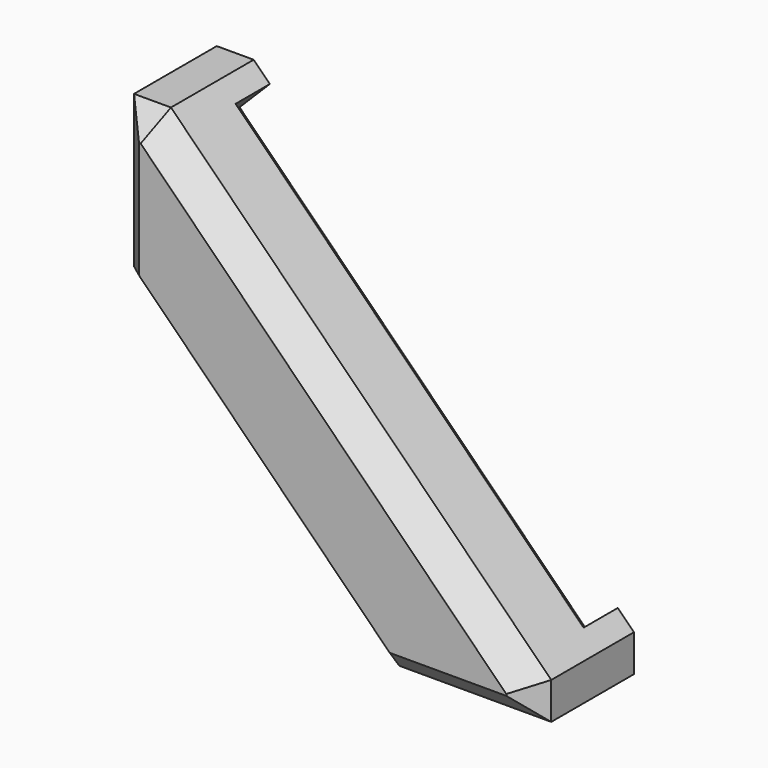
from build123d import *

# Parameters (mm, degrees)
PAD005_DEPTH    = 9
POCKET002_DEPTH = 4
CHAMFER002_SIZE = 0.8
POCKET008_DEPTH = 3
CHAMFER007_SIZE = 1.75
CHAMFER008_SIZE = 8.99
POCKET013_DEPTH = 8.001


with BuildPart() as part:
    # Sketch008 → Pad005 (new body)
    with BuildSketch(Plane(origin=(0, 0, 249.45), x_dir=(1, 0, 0), z_dir=(0, -1, 0))):
        Polygon((0.989949, -221.802125), (27.647875, -248.460051), (27.647875, -251.05), (6.76188, -251.05), (-1.6, -242.68812), (-1.6, -221.802125), align=None)
    extrude(amount=PAD005_DEPTH)

    # Sketch009 (on Face7 of Pad005) → Pocket002 (cut)
    with BuildSketch(Plane(origin=(0, 0, 0), x_dir=(1, 0, 0), z_dir=(0, 1, 0))):
        Polygon((22.132442, 0), (18.031223, -4.101219), (13.930004, 0), align=None)
        Polygon((0, -22.132442), (0, -13.930004), (4.101219, -18.031223), align=None)
    extrude(amount=-POCKET002_DEPTH, mode=Mode.SUBTRACT)

    # Chamfer002
    chamfer002_edges = [part.edges().sort_by_distance(p)[0] for p in [
        (18.031223, 0, 0),
        (20.081833, 0, 2.05061),
        (15.980613, 0, 2.05061),
        (0, 0, 18.031223),
        (2.05061, 0, 20.081833),
        (2.05061, 0, 15.980613),
    ]]
    chamfer(chamfer002_edges, length=CHAMFER002_SIZE)

    # Sketch050 → Pocket008 (cut)
    with BuildSketch(Plane(origin=(0, 0, 249.45), x_dir=(1, 0, 0), z_dir=(0, -1, 0))):
        Polygon((0, -225.054816), (2.12132, -222.933496), (26.516504, -247.32868), (24.395184, -249.45), align=None)
    extrude(amount=POCKET008_DEPTH, mode=Mode.SUBTRACT)

    # Chamfer007
    chamfer007_edges = [part.edges().sort_by_distance(p)[0] for p in [
        (17.204877, -9, -1.6),
        (27.647875, -9, -0.305025),
        (14.318912, -9, 14.318912),
        (-1.6, -9, 17.204877),
        (-0.305025, -9, 27.647875),
    ]]
    chamfer(chamfer007_edges, length=CHAMFER007_SIZE)

    # Chamfer008
    chamfer008_edges = [part.edges().sort_by_distance(p)[0] for p in [
        (2.58094, -9, 2.58094),
    ]]
    chamfer(chamfer008_edges, length=CHAMFER008_SIZE)

    # Sketch059 (on Face4 of Chamfer008) → Pocket013 (cut, through all)
    with BuildSketch(Plane(origin=(0, -1, 0), x_dir=(1, 0, 0), z_dir=(0, 1, 0))):
        Polygon((12.643069, -5.23259), (5.23259, -12.643069), (-2.177889, -5.23259), (5.23259, 2.177889), align=None)
    extrude(amount=-POCKET013_DEPTH, mode=Mode.SUBTRACT)


with BuildPart() as part_1:
    # Body001 placement: moved
    add(part.part.moved(Location((0, -249.45, 0))))


solid = part_1.part
